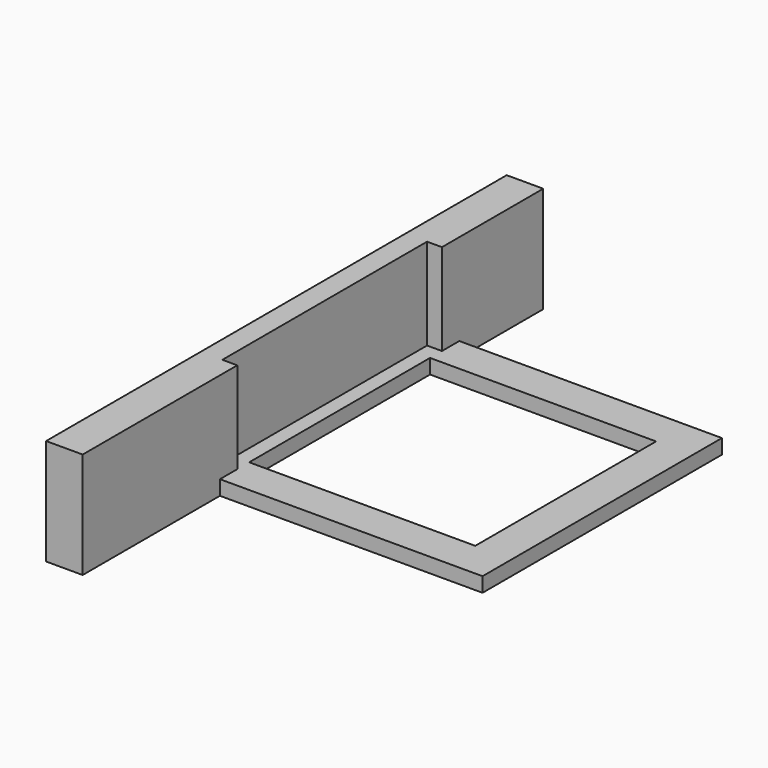
from build123d import *

# Parameters (mm, degrees)
F1_W      = 61.8
F1_H      = 61.8
F1_W_2    = 10
F1_H_2    = 46.907837
F2_DEPTH  = 4
F3_W      = 10
F3_H      = 48.056386
F4_DEPTH  = 25
F4_FACE_W = 10
F4_FACE_H = 29
F5_DEPTH  = 157.4
F6_W      = 4.076856
F6_H      = 61.8
F6_H_2    = 4.076856
F7_DEPTH  = 25


with BuildPart() as f2:
    # F1 (on Top) → F2 (new body)
    with BuildSketch(Plane.XY):
        Polygon((50.684865, 24.286445), (-31.115135, 24.286445), (-31.115135, -57.513555), (-21.115135, -57.513555), (50.684865, -57.513555), align=None)
        with Locations((9.784865, -16.613555)):
            Rectangle(F1_W, F1_H, mode=Mode.SUBTRACT)
        with Locations((-26.115135, -80.967473)):
            Rectangle(F1_W_2, F1_H_2)
    extrude(amount=F2_DEPTH)

    # F3 (on face) → F4 (join)
    with BuildSketch(Plane.XY.offset(4)):
        with Locations((-26.115135, -80.393199)):
            Rectangle(F3_W, F3_H)
    extrude(amount=F4_DEPTH)

    # F4_face (on face) → F5 (join)
    with BuildSketch(Plane(origin=(-26.115135, -104.421392, 14.5), x_dir=(1, 0, 0), z_dir=(0, -1, 0))):
        Rectangle(F4_FACE_W, F4_FACE_H)
    extrude(amount=-F5_DEPTH)

    # F6 (on face) → F7 (cut)
    with BuildSketch(Plane.XY.offset(29)):
        with Locations((-23.153563, -16.613555)):
            Rectangle(F6_W, F6_H)
        with Locations((-23.153563, 16.324873)):
            Rectangle(F6_W, F6_H_2)
        with Locations((-23.153563, -49.551983)):
            Rectangle(F6_W, F6_H_2)
    extrude(amount=-F7_DEPTH, mode=Mode.SUBTRACT)


solid = f2.part
